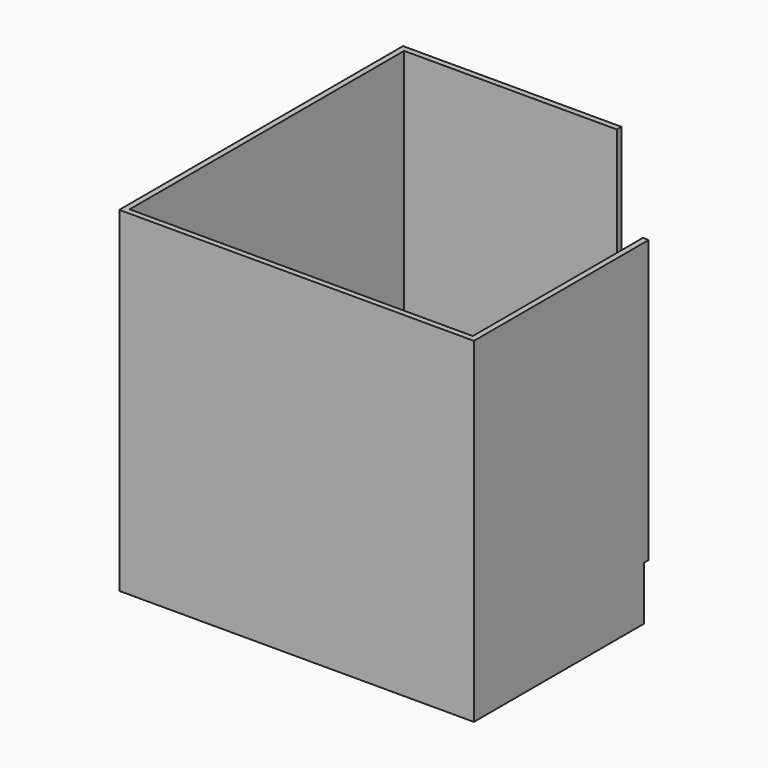
from build123d import *

# Parameters (mm, degrees)
F2_DEPTH  = 15
F3_DEPTH  = 15
F6_DEPTH  = 15
F9_DEPTH  = 15
F11_W     = 910
F11_H     = 875
F12_DEPTH = 15


with BuildPart() as f2:
    # F0 (on Right) → F2 (new body)
    with BuildSketch(Plane.YZ):
        Polygon((-15, -140), (540, -140), (540, 0), (555, 0), (555, 735), (-15, 735), align=None)
    extrude(amount=F2_DEPTH)

    # F1 (on Top) → F3 (join)
    with BuildSketch(Plane.XY):
        Polygon((-895, 0), (0, 0), (0, 555), (-340, 555), (-340, 895), (-895, 895), align=None)
    extrude(amount=F3_DEPTH)

    # F5 (on offset) → F6 (join)
    with BuildSketch(Plane(origin=(-895, 0, 0), x_dir=(0, -1, 0), z_dir=(-1, 0, 0))):
        Polygon((0, -140), (0, 0), (0, 735), (-895, 735), (-895, -140), align=None)
    extrude(amount=F6_DEPTH)

    # F8 (on offset) → F9 (join)
    with BuildSketch(Plane(origin=(0, 895, 0), x_dir=(-1, 0, 0), z_dir=(0, 1, 0))):
        Polygon((355, -140), (910, -140), (910, 735), (340, 735), (340, 0), (355, 0), align=None)
    extrude(amount=F9_DEPTH)

    # F11 (on offset) → F12 (join)
    with BuildSketch(Plane.XZ):
        with Locations((-455, 297.5)):
            Rectangle(F11_W, F11_H)
    extrude(amount=F12_DEPTH)


solid = f2.part
